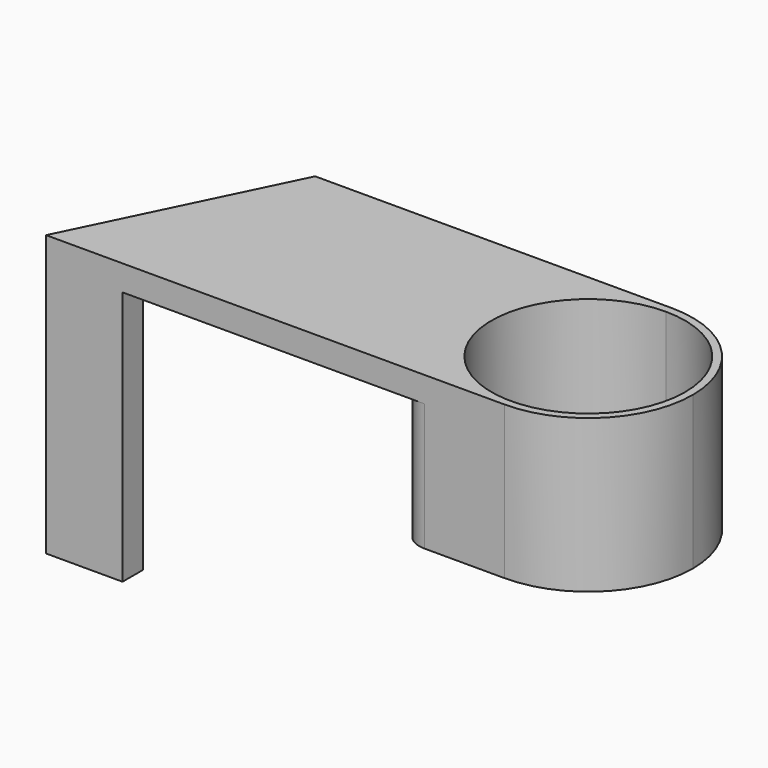
from build123d import *

# Parameters (mm, degrees)
F1_DEPTH = 55
F3_DEPTH = 50
F4_W     = 46.665443
F4_H     = 57.836632
F5_DEPTH = 25
F6_R     = 5


with BuildPart() as f1:
    # F0 (on Top) → F1 (new body)
    with BuildSketch(Plane.XY):
        with BuildLine():
            ThreePointArc((19, 0), (13.435029, 13.435029), (0, 19))
            ThreePointArc((0, 19), (-13.435029, -13.435029), (19, 0))
        make_face()
        with BuildLine():
            ThreePointArc((0, -20.5), (14.495689, -14.495689), (20.5, 0))
            ThreePointArc((20.5, 0), (14.495689, 14.495689), (0, 20.5))
            ThreePointArc((0, 20.5), (-20.5, 0), (0, -20.5))
        make_face()
        with BuildLine():
            ThreePointArc((19, 0), (-13.435029, -13.435029), (0, 19))
            ThreePointArc((0, 19), (13.435029, 13.435029), (19, 0))
        make_face(mode=Mode.SUBTRACT)
        with BuildLine():
            ThreePointArc((0, -20.5), (-20.5, 0), (0, 20.5))
            Line((0, 20.5), (-70, 20.5))
            Line((-70, 20.5), (-90, -20.5))
            Line((-90, -20.5), (0, -20.5))
        make_face()
    extrude(amount=F1_DEPTH)

    # F2 (on face) → F3 (cut)
    with BuildSketch(Plane.XY):
        Polygon((-20.693906, 24.132871), (-92.302133, 24.132871), (-92.683225, -15.5), (-75, -15.5), (-75, -22.003565), (-20.745235, -22.003565), align=None)
    extrude(amount=F3_DEPTH, mode=Mode.SUBTRACT)

    # F4 (on face) → F5 (cut)
    with BuildSketch(Plane.XY):
        with Locations((-0.75581, 1.738093)):
            Rectangle(F4_W, F4_H)
    extrude(amount=F5_DEPTH, mode=Mode.SUBTRACT)

    # F6
    f6_edges = [f1.edges().sort_by_distance(p)[0] for p in [
        (-20.697947, 20.5, 37.5),
        (-20.743562, -20.5, 37.5),
    ]]
    fillet(f6_edges, radius=F6_R)


solid = f1.part
